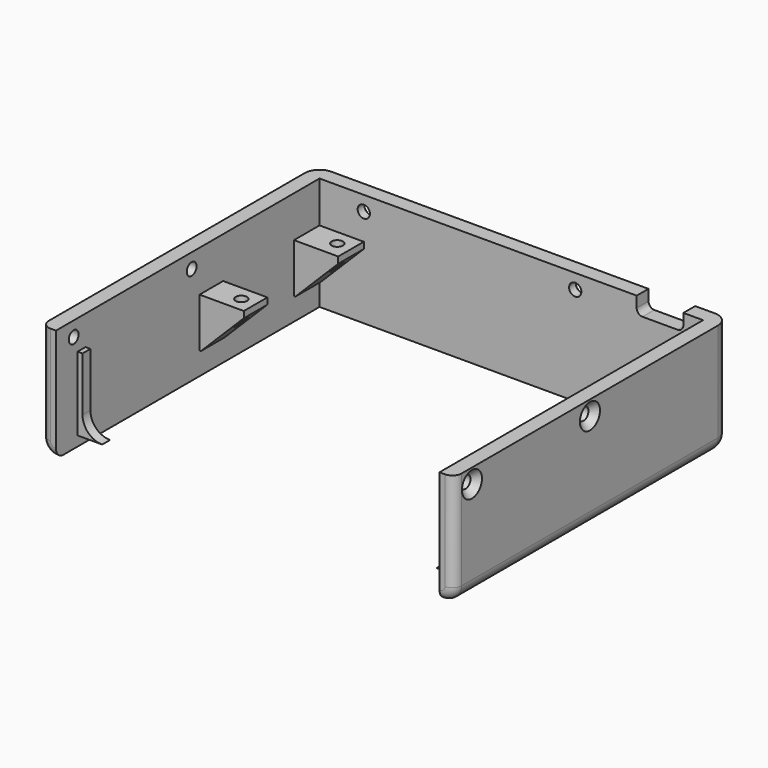
from build123d import *

# Parameters (mm, degrees)
PAD011_DEPTH    = 23
POCKET004_DEPTH = 5
SKETCH018_R     = 1.25
POCKET005_DEPTH = 84.001
SKETCH019_R     = 1.25
POCKET006_DEPTH = 5
CHAMFER_SIZE    = 1.3
PAD015_DEPTH    = 2
FILLET004_R     = 2.9
FILLET005_R     = 1.9
SKETCH023_W     = 6
SKETCH023_H     = 10
SKETCH023_W_2   = 7
PAD016_DEPTH    = 9
CHAMFER001_SIZE = 8.7
SKETCH024_R     = 1.15
POCKET007_DEPTH = 7


with BuildPart() as part:
    # Sketch015 → Pad011 (new body)
    with BuildSketch(Plane.XY):
        with BuildLine():
            ThreePointArc((-39, 18.5), (-41.12132, 17.62132), (-42, 15.5))
            Line((-42, -51.5), (-42, 15.5))
            Line((-39, -51.5), (-42, -51.5))
            Line((-39, 15.5), (-39, -51.5))
            Line((-39, 15.5), (39, 15.5))
            Line((39, -51.5), (39, 15.5))
            Line((42, -51.5), (39, -51.5))
            Line((42, 15.5), (42, -51.5))
            ThreePointArc((42, 15.5), (41.12132, 17.62132), (39, 18.5))
            Line((-39, 18.5), (39, 18.5))
        make_face()
    extrude(amount=PAD011_DEPTH)

    # Sketch017 (on Face10 of Pad011) → Pocket004 (cut)
    with BuildSketch(Plane(origin=(0, 18.5, 0), x_dir=(-1, 0, 0), z_dir=(0, 1, 0))):
        with BuildLine():
            Line((-25.5, 23), (-25.5, 20.8))
            ThreePointArc((-26.7, 19.6), (-25.851472, 19.951472), (-25.5, 20.8))
            Line((-26.7, 19.6), (-33.8, 19.6))
            ThreePointArc((-35, 20.8), (-34.648528, 19.951472), (-33.8, 19.6))
            Line((-35, 20.8), (-35, 23))
            Line((-35, 23), (-25.5, 23))
        make_face()
    extrude(amount=-POCKET004_DEPTH, mode=Mode.SUBTRACT)

    # Sketch018 (on Face3 of Pocket004) → Pocket005 (cut, through all)
    with BuildSketch(Plane(origin=(-42, 0, 0), x_dir=(0, -1, 0), z_dir=(-1, 0, 0))):
        with Locations((17, 20)):
            Circle(SKETCH018_R)
        with Locations((47, 20)):
            Circle(SKETCH018_R)
    extrude(amount=-POCKET005_DEPTH, mode=Mode.SUBTRACT)

    # Sketch019 (on Face2 of Pocket005) → Pocket006 (cut)
    with BuildSketch(Plane(origin=(0, 18.5, 0), x_dir=(-1, 0, 0), z_dir=(0, 1, 0))):
        with Locations((-13, 20)):
            Circle(SKETCH019_R)
        with Locations((30, 20)):
            Circle(SKETCH019_R)
    extrude(amount=-POCKET006_DEPTH, mode=Mode.SUBTRACT)

    # Chamfer
    chamfer_edges = [part.edges().sort_by_distance(p)[0] for p in [
        (14.25, 18.5, 20),
        (-28.75, 18.5, 20),
        (-42, -45.75, 20),
        (42, -45.75, 20),
        (42, -15.75, 20),
        (-42, -15.75, 20),
    ]]
    chamfer(chamfer_edges, length=CHAMFER_SIZE)

    # Sketch022 (on Face16 of Chamfer) → Pad015 (join)
    with BuildSketch(Plane.XZ.offset(46)):
        with BuildLine():
            Line((38, 17), (39, 17))
            Line((39, 17), (39, 1.99))
            Line((39, 1.99), (34, 1.99))
            ThreePointArc((34, 1.99), (36.828427, 3.161573), (38, 5.99))
            Line((38, 17), (38, 5.99))
        make_face()
        with BuildLine():
            Line((-38, 17), (-39, 17))
            Line((-39, 17), (-39, 1.99))
            Line((-39, 1.99), (-34, 1.99))
            ThreePointArc((-38, 5.99), (-36.828427, 3.161573), (-34, 1.99))
            Line((-38, 17), (-38, 5.99))
        make_face()
    extrude(amount=-PAD015_DEPTH)

    # Fillet004
    fillet004_edges = [part.edges().sort_by_distance(p)[0] for p in [
        (42, -18, 0),
        (41.12132, 17.62132, 0),
        (0, 18.5, 0),
        (-41.12132, 17.62132, 0),
        (-42, -18, 0),
    ]]
    fillet(fillet004_edges, radius=FILLET004_R)

    # Fillet005
    fillet005_edges = [part.edges().sort_by_distance(p)[0] for p in [
        (-42, -51.5, 12.95),
        (42, -51.5, 12.95),
        (41.15061, -51.5, 0.84939),
        (-41.15061, -51.5, 0.84939),
    ]]
    fillet(fillet005_edges, radius=FILLET005_R)

    # Sketch023 (on Face4 of Fillet005) → Pad016 (join)
    with BuildSketch(Plane.YZ.offset(-39)):
        with Locations((-12, 9.6)):
            Rectangle(SKETCH023_W, SKETCH023_H)
        with Locations((12.5, 9.6)):
            Rectangle(SKETCH023_W_2, SKETCH023_H)
    extrude(amount=PAD016_DEPTH)

    # Chamfer001
    chamfer001_edges = [part.edges().sort_by_distance(p)[0] for p in [
        (-30, 12.25, 4.6),
        (-30, -12, 4.6),
    ]]
    chamfer(chamfer001_edges, length=CHAMFER001_SIZE)

    # Sketch024 (on Face26 of Chamfer001) → Pocket007 (cut)
    with BuildSketch(Plane.XY.offset(14.6)):
        with Locations((-32.9, -12)):
            Circle(SKETCH024_R)
        with Locations((-32.9, 12.4)):
            Circle(SKETCH024_R)
    extrude(amount=-POCKET007_DEPTH, mode=Mode.SUBTRACT)


solid = part.part
